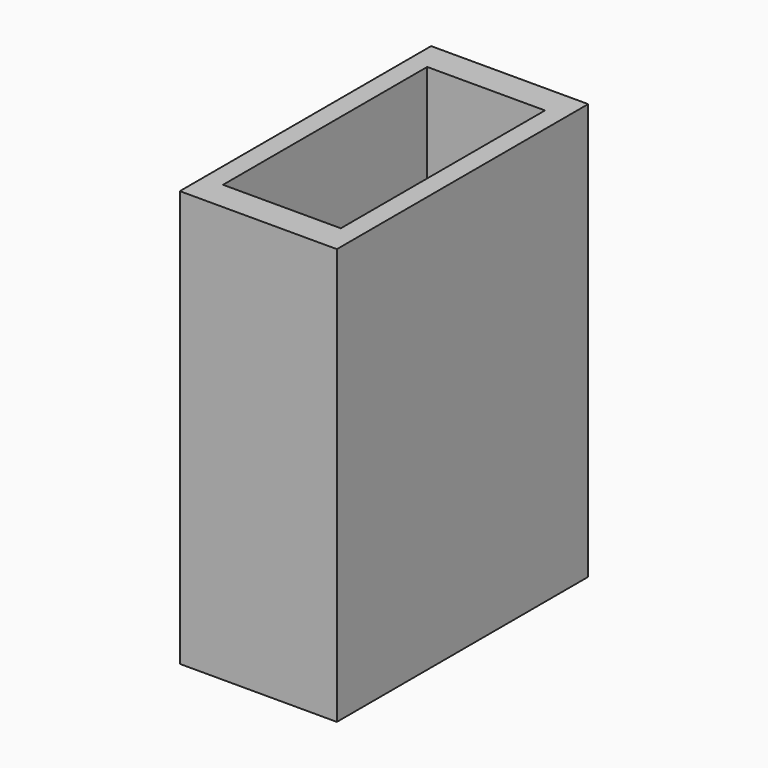
from build123d import *

# Parameters (mm, degrees)
F0_W     = 8
F0_H     = 16
F0_W_2   = 6
F0_H_2   = 13
F1_DEPTH = 6.6
F2_W     = 8
F2_H     = 16
F3_DEPTH = 14.6
F5_R     = 0.5
F6_DEPTH = 3
F4_W     = 12
F4_H     = 2
F7_DEPTH = 12


with BuildPart() as f1:
    # F0 (on Top) → F1 (new body)
    with BuildSketch(Plane.XY):
        with Locations((-3, 6.5)):
            Rectangle(F0_W, F0_H)
        with Locations((-3, 6.5)):
            Rectangle(F0_W_2, F0_H_2, mode=Mode.SUBTRACT)
    extrude(amount=F1_DEPTH)

    # F2 (on face) → F3 (join)
    with BuildSketch(Plane(origin=(0, 0, 0), x_dir=(1, 0, 0), z_dir=(0, 0, -1))):
        with Locations((-3, -6.5)):
            Rectangle(F2_W, F2_H)
    extrude(amount=F3_DEPTH)

    # F5 (on face) → F6 (cut)
    with BuildSketch(Plane.XY):
        with Locations((-3, 11.32)):
            Circle(F5_R)
        with Locations((-3, 6.6)):
            Circle(F5_R)
        with Locations((-3, 1.68)):
            Circle(F5_R)
    extrude(amount=-F6_DEPTH, mode=Mode.SUBTRACT)

    # F4 (on Right) → F7 (cut)
    with BuildSketch(Plane.YZ):
        with Locations((6.75, -2)):
            Rectangle(F4_W, F4_H)
    extrude(amount=-F7_DEPTH, mode=Mode.SUBTRACT)


solid = f1.part
